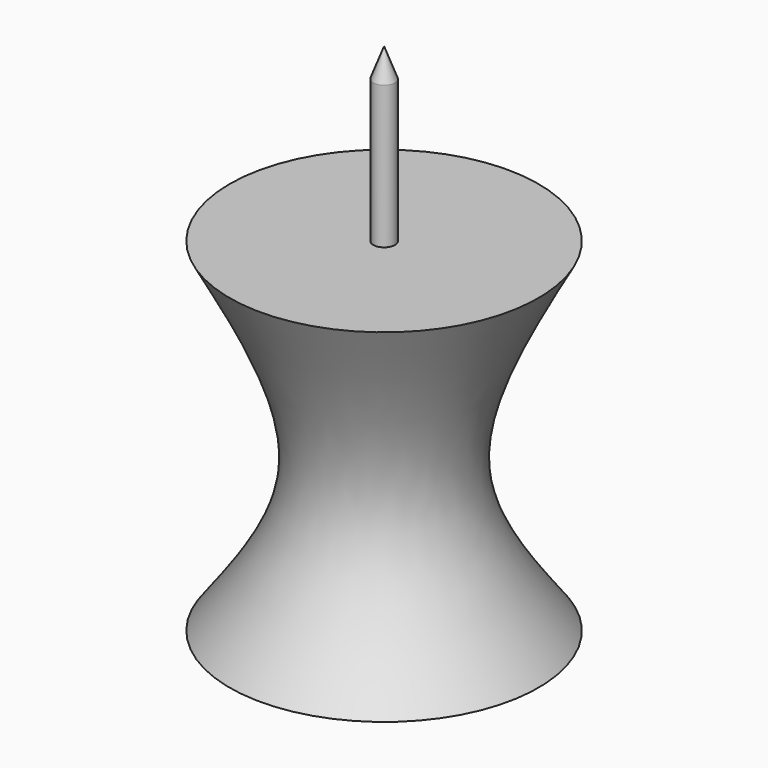
from build123d import *


with BuildPart() as f1:
    # F0 (on Front) → F1 (revolve)
    with BuildSketch(Plane.XZ):
        with BuildLine():
            Line((-56.5946735442, -35.6516502798), (-33.7270088494, -35.6516502798))
            Line((-33.7270088494, -35.6516502798), (-33.7270088494, 40.540356189))
            Line((-33.7270088494, 40.540356189), (-35.3270061314, 36.2727604806))
            Line((-35.3270061314, 36.2727604806), (-35.3270061314, 15.1358162984))
            Line((-35.3270061314, 15.1358162984), (-56.5946735442, 15.1358162984))
            add(Edge.make_bspline(
                [(-56.5946735442, 15.1358162984), (-50.9903027317, 4.9322510601), (-40.4731426774, -14.2157554381), (-51.4616895088, -28.8266094747), (-56.5946735442, -35.6516502798)],
                knots=[0, 0, 0, 0, 0.5328787224, 1, 1, 1, 1], degree=3))
        make_face()
    revolve(axis=Axis((-33.7270088494, 0, 2.4443529546), (0, 0, -1)))


solid = f1.part
